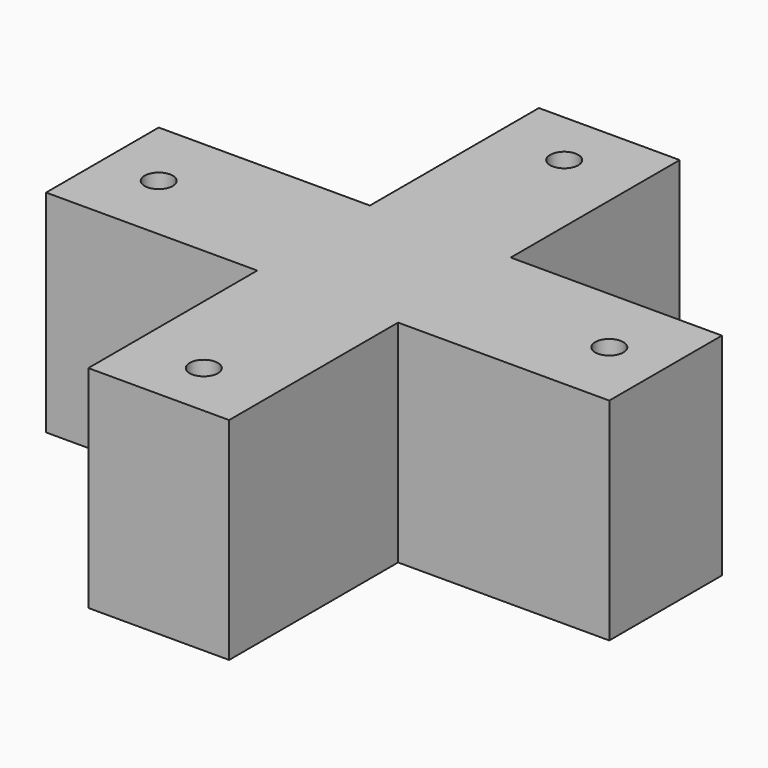
from build123d import *

# Parameters (mm, degrees)
SKETCH_R  = 2
PAD_DEPTH = 30


with BuildPart() as part:
    # Sketch → Pad (new body)
    with BuildSketch(Plane.XY):
        Polygon((-10, 10), (-10, 40), (10, 40), (10, 10), (40, 10), (40, -10), (10, -10), (10, -40), (-10, -40), (-10, -10), (-40, -10), (-40, 10), align=None)
        with Locations((-32, 0)):
            Circle(SKETCH_R, mode=Mode.SUBTRACT)
        with Locations((0, -32)):
            Circle(SKETCH_R, mode=Mode.SUBTRACT)
        with Locations((32, 0)):
            Circle(SKETCH_R, mode=Mode.SUBTRACT)
        with Locations((0, 32)):
            Circle(SKETCH_R, mode=Mode.SUBTRACT)
    extrude(amount=PAD_DEPTH)


solid = part.part
